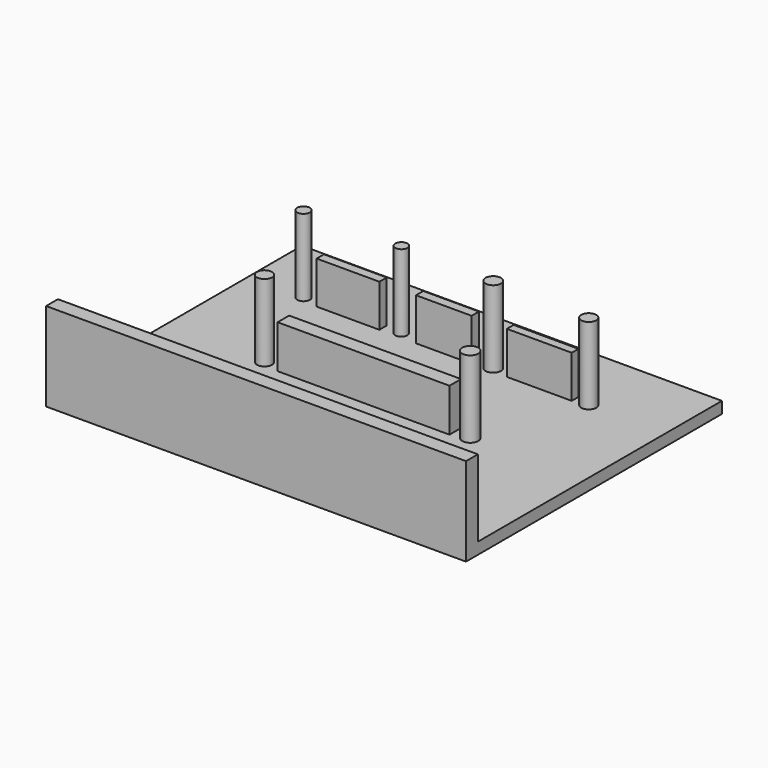
from build123d import *

# Parameters (mm, degrees)
F0_W      = 138.621978
F0_H      = 105.59459
F1_DEPTH  = 3.81
F2_R      = 2.106167
F3_DEPTH  = 25.4
F4_R      = 2.000792
F5_DEPTH  = 25.4
F6_R      = 2.558459
F7_DEPTH  = 25.4
F8_R      = 2.472435
F9_DEPTH  = 25.4
F10_W     = 138.621978
F10_H     = 4.884328
F11_DEPTH = 25.4
F12_R     = 2.472435
F13_DEPTH = 25.4
F14_R     = 2.6519
F15_DEPTH = 25.4
F16_W     = 20.700261
F16_H     = 3.023634
F16_W_2   = 18.374391
F16_W_3   = 21.398022
F16_H_2   = 2.791049
F17_DEPTH = 13.97
F18_W     = 56.751281
F18_H     = 4.768038
F19_DEPTH = 14.224


with BuildPart() as f1:
    # F0 (on Top) → F1 (new body)
    with BuildSketch(Plane.XY):
        with Locations((1.744408, 1.046643)):
            Rectangle(F0_W, F0_H)
    extrude(amount=F1_DEPTH)

    # F2 (on face) → F3 (join)
    with BuildSketch(Plane.XY.offset(3.81)):
        with Locations((-49.192194, 31.515568)):
            Circle(F2_R)
    extrude(amount=F3_DEPTH)

    # F4 (on face) → F5 (join)
    with BuildSketch(Plane.XY.offset(3.81)):
        with Locations((-17.09516, 31.748157)):
            Circle(F4_R)
    extrude(amount=F5_DEPTH)

    # F6 (on face) → F7 (join)
    with BuildSketch(Plane.XY.offset(3.81)):
        with Locations((13.606353, 31.28298)):
            Circle(F6_R)
    extrude(amount=F7_DEPTH)

    # F8 (on face) → F9 (join)
    with BuildSketch(Plane.XY.offset(3.81)):
        with Locations((45.703389, 30.585218)):
            Circle(F8_R)
    extrude(amount=F9_DEPTH)

    # F10 (on face) → F11 (join)
    with BuildSketch(Plane.XY.offset(3.81)):
        with Locations((1.744408, -49.308488)):
            Rectangle(F10_W, F10_H)
    extrude(amount=F11_DEPTH)

    # F12 (on face) → F13 (join)
    with BuildSketch(Plane.XY.offset(3.81)):
        with Locations((-34.5392, -2.90734)):
            Circle(F12_R)
    extrude(amount=F13_DEPTH)

    # F14 (on face) → F15 (join)
    with BuildSketch(Plane.XY.offset(3.81)):
        with Locations((33.376262, -2.90734)):
            Circle(F14_R)
    extrude(amount=F15_DEPTH)

    # F16 (on face) → F17 (join)
    with BuildSketch(Plane.XY.offset(3.81)):
        with Locations((-33.027384, 31.166687)):
            Rectangle(F16_W, F16_H)
        with Locations((-1.395523, 31.166687)):
            Rectangle(F16_W_2, F16_H)
        with Locations((30.120045, 31.050394)):
            Rectangle(F16_W_3, F16_H_2)
    extrude(amount=F17_DEPTH)

    # F18 (on face) → F19 (join)
    with BuildSketch(Plane.XY.offset(3.81)):
        with Locations((-0.34888, -2.384019)):
            Rectangle(F18_W, F18_H)
    extrude(amount=F19_DEPTH)


solid = f1.part
